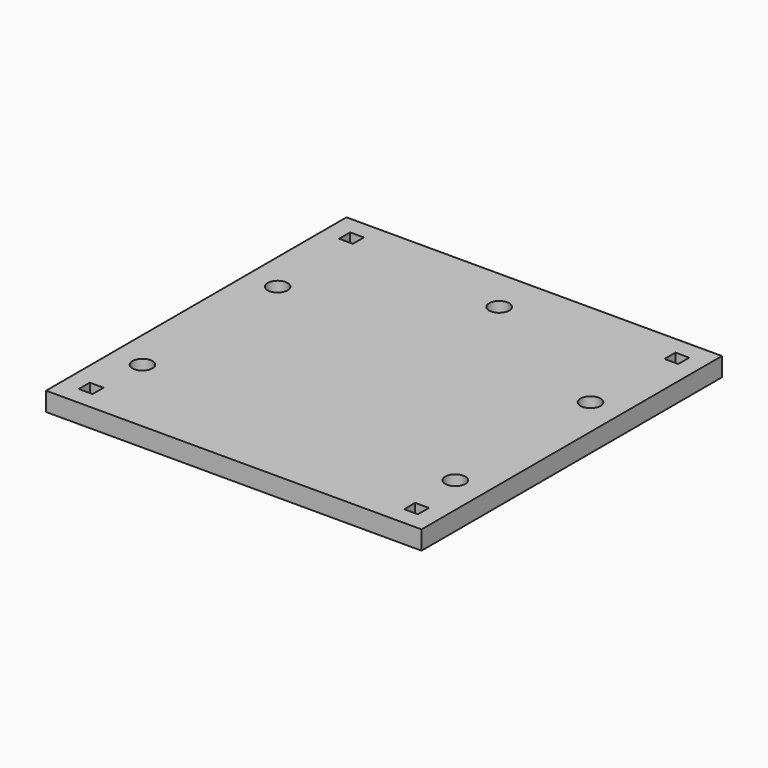
from build123d import *

# Parameters (mm, degrees)
F0_W     = 60
F0_H     = 60
F1_DEPTH = 3
F2_R     = 1.6
F3_DEPTH = 3.001
F4_W     = 2.2
F4_H     = 2.2
F5_DEPTH = 3.001


with BuildPart() as f1:
    # F0 (on Top) → F1 (new body)
    with BuildSketch(Plane.XY):
        Rectangle(F0_W, F0_H)
    extrude(amount=F1_DEPTH)

    # F2 (on face) → F3 (cut, through all)
    with BuildSketch(Plane(origin=(0, 0, 0), x_dir=(1, 0, 0), z_dir=(0, 0, -1))):
        with Locations((-25, -10)):
            Circle(F2_R)
        with Locations((-25, 17)):
            Circle(F2_R)
        with Locations((25, 17)):
            Circle(F2_R)
        with Locations((25, -10)):
            Circle(F2_R)
        with Locations((0, -23)):
            Circle(F2_R)
    extrude(amount=-F3_DEPTH, mode=Mode.SUBTRACT)

    # F4 (on face) → F5 (cut, through all)
    with BuildSketch(Plane(origin=(0, 0, 0), x_dir=(1, 0, 0), z_dir=(0, 0, -1))):
        with Locations((26, 26)):
            Rectangle(F4_W, F4_H)
        with Locations((26, -26)):
            Rectangle(F4_W, F4_H)
        with Locations((-26, 26)):
            Rectangle(F4_W, F4_H)
        with Locations((-26, -26)):
            Rectangle(F4_W, F4_H)
    extrude(amount=-F5_DEPTH, mode=Mode.SUBTRACT)


solid = f1.part
